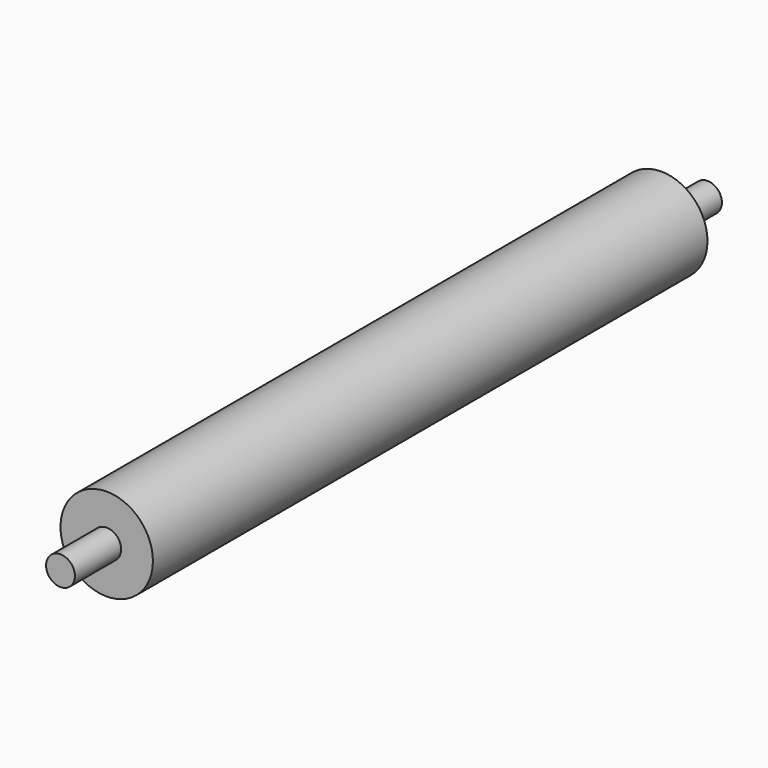
from build123d import *

# Parameters (mm, degrees)
F0_R     = 80
F1_DEPTH = 600
F2_R     = 25
F3_DEPTH = 100


with BuildPart() as f1:
    # F0 (on Front) → F1 (new body, symmetric)
    with BuildSketch(Plane.XZ):
        Circle(F0_R)
    extrude(amount=F1_DEPTH, both=True)

    # F2 (on face) → F3 (join)
    with BuildSketch(Plane.XZ.offset(600)):
        Circle(F2_R)
    extrude(amount=F3_DEPTH)

    # F4: F1 across plane


with BuildPart() as f1_1:
    add(f1.part)
    add(f1.part.mirror(Plane.XZ))


solid = f1_1.part
